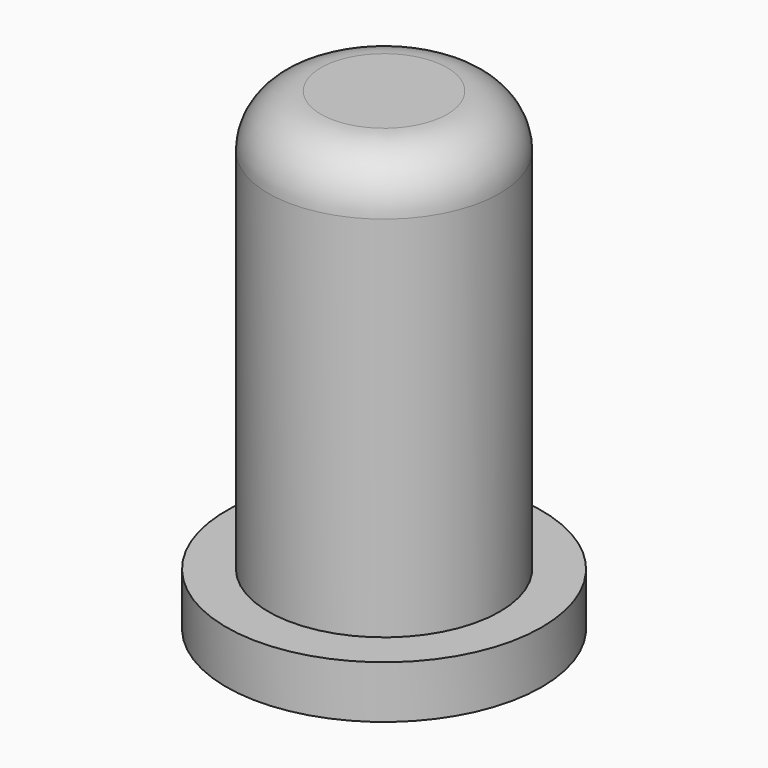
from build123d import *

# Parameters (mm, degrees)
CYLINDER019_R     = 2.2
CYLINDER019_DEPTH = 9
CYLINDER021_R     = 3
CYLINDER021_DEPTH = 1
FILLET_R          = 1


with BuildPart() as obj1_c:
    # Cylinder019 → Cylinder019 (new body)
    with BuildSketch(Plane(origin=(9.6, 98.3, 10.1), x_dir=(1, 0, 0), z_dir=(0, 0, 1))):
        Circle(CYLINDER019_R)
    extrude(amount=CYLINDER019_DEPTH)


with BuildPart() as obj1:
    # Cylinder021 → Cylinder021 (new body)
    with BuildSketch(Plane(origin=(9.6, 98.3, 10.1), x_dir=(1, 0, 0), z_dir=(0, 0, 1))):
        Circle(CYLINDER021_R)
    extrude(amount=CYLINDER021_DEPTH)

    # Fusion032: union obj1_c
    add(obj1_c.part)

    # Fillet
    fillet_edges = [obj1.edges().sort_by_distance(p)[0] for p in [
        (7.4, 98.3, 19.1),
    ]]
    fillet(fillet_edges, radius=FILLET_R)


solid = obj1.part
